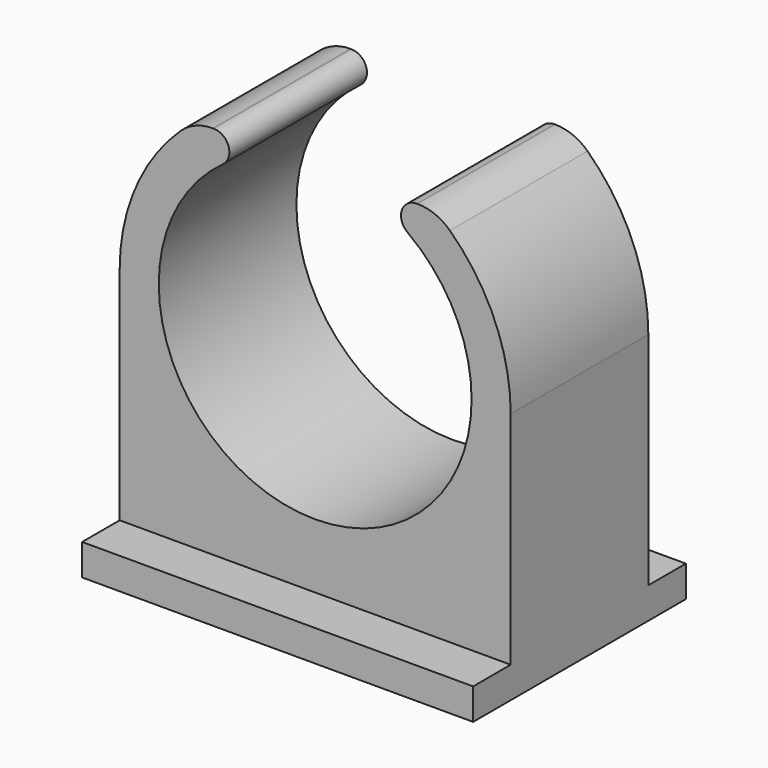
from build123d import *

# Parameters (mm, degrees)
F1_DEPTH = 11
F2_W     = 25
F2_H     = 17
F3_DEPTH = 2


with BuildPart() as f1:
    # F0 (on Front) → F1 (new body)
    with BuildSketch(Plane.XZ):
        with BuildLine():
            Line((0, 14.117118), (0, 0))
            Line((0, 0), (25, 0))
            Line((25, 0), (25, 14.117118))
            ThreePointArc((25, 14.117118), (23.98797, 19.044242), (21.115752, 23.173542))
            ThreePointArc((21.115752, 23.173542), (20.161384, 23.785734), (19.047972, 24))
            Line((19.047972, 24), (18.98802, 24))
            ThreePointArc((18.98802, 24), (18.037353, 23.310214), (18.3982, 22.192465))
            ThreePointArc((18.3982, 22.192465), (12.5, 4.117118), (6.6018, 22.192465))
            ThreePointArc((6.6018, 22.192465), (6.962647, 23.310214), (6.01198, 24))
            Line((6.01198, 24), (5.952028, 24))
            ThreePointArc((5.952028, 24), (4.838616, 23.785734), (3.884248, 23.173542))
            ThreePointArc((3.884248, 23.173542), (1.01203, 19.044242), (0, 14.117118))
        make_face()
    extrude(amount=F1_DEPTH)

    # F2 (on face) → F3 (join)
    with BuildSketch(Plane(origin=(0, 0, 0), x_dir=(1, 0, 0), z_dir=(0, 0, -1))):
        with Locations((12.5, 5.5)):
            Rectangle(F2_W, F2_H)
    extrude(amount=F3_DEPTH)


solid = f1.part
